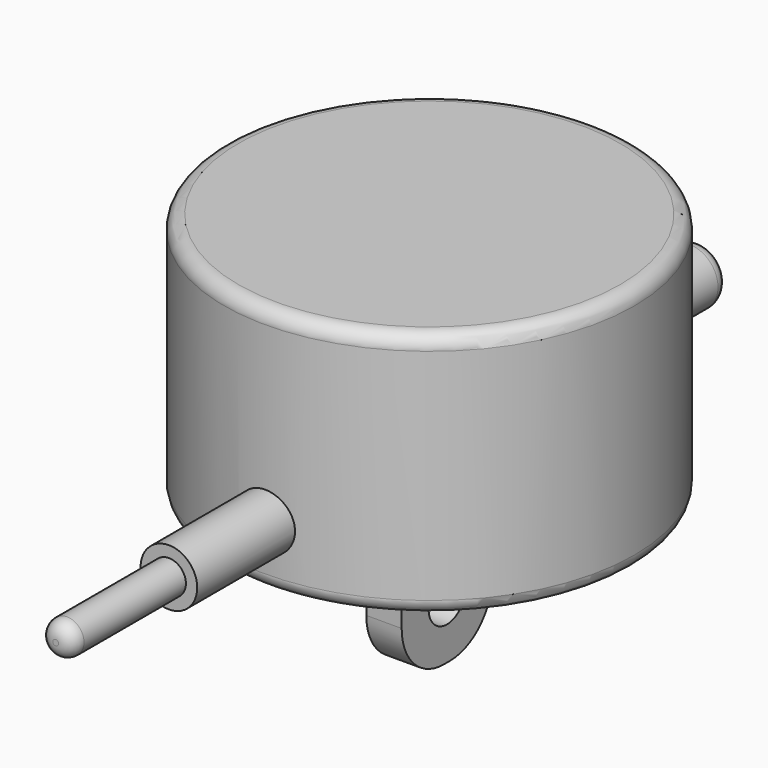
from build123d import *

# Parameters (mm, degrees)
SKETCH_R          = 29
PAD_DEPTH         = 35
SKETCH001_W       = 5
SKETCH001_H       = 16
PAD001_DEPTH      = 20
SKETCH002_R       = 4
PAD002_DEPTH      = 66
PAD002_DEPTH_BACK = 48
SKETCH003_R       = 4
SKETCH003_R_2     = 2.4
POCKET_DEPTH      = 20
SKETCH004_R       = 3.25
POCKET001_DEPTH   = 5
FILLET_R          = 2
FILLET001_R       = 7.5


with BuildPart() as part:
    # Sketch → Pad (new body)
    with BuildSketch(Plane.XY):
        Circle(SKETCH_R)
    extrude(amount=PAD_DEPTH)

    # Sketch001 (on Face2 of Pad) → Pad001 (join)
    with BuildSketch(Plane(origin=(0, 0, 0), x_dir=(1, 0, 0), z_dir=(0, 0, -1))):
        Rectangle(SKETCH001_W, SKETCH001_H)
    extrude(amount=PAD001_DEPTH)

    # Sketch002 → Pad002 (join, two sides)
    with BuildSketch(Plane.XZ) as pad002_sk:
        with Locations((0, 8.5)):
            Circle(SKETCH002_R)
    extrude(amount=PAD002_DEPTH)
    extrude(pad002_sk.sketch, amount=-PAD002_DEPTH_BACK)

    # Sketch003 (on Face12 of Pad002) → Pocket (cut)
    with BuildSketch(Plane.XZ.offset(66)):
        with Locations((0, 8.5)):
            Circle(SKETCH003_R)
        with Locations((0, 8.5)):
            Circle(SKETCH003_R_2, mode=Mode.SUBTRACT)
    extrude(amount=-POCKET_DEPTH, mode=Mode.SUBTRACT)

    # Sketch004 (on Face6 of Pocket) → Pocket001 (cut)
    with BuildSketch(Plane.YZ.offset(2.5)):
        with Locations((0, -12)):
            Circle(SKETCH004_R)
    extrude(amount=-POCKET001_DEPTH, mode=Mode.SUBTRACT)

    # Fillet
    fillet_edges = [part.edges().sort_by_distance(p)[0] for p in [
        (-2.4, -66, 8.5),
        (-29, 0, 35),
        (-29, 0, 0),
        (0, 8, 0),
        (0, -8, 0),
        (-4, 48, 8.5),
    ]]
    fillet(fillet_edges, radius=FILLET_R)

    # Fillet001
    fillet001_edges = [part.edges().sort_by_distance(p)[0] for p in [
        (0, -8, -20),
        (0, 8, -20),
    ]]
    fillet(fillet001_edges, radius=FILLET001_R)


solid = part.part
